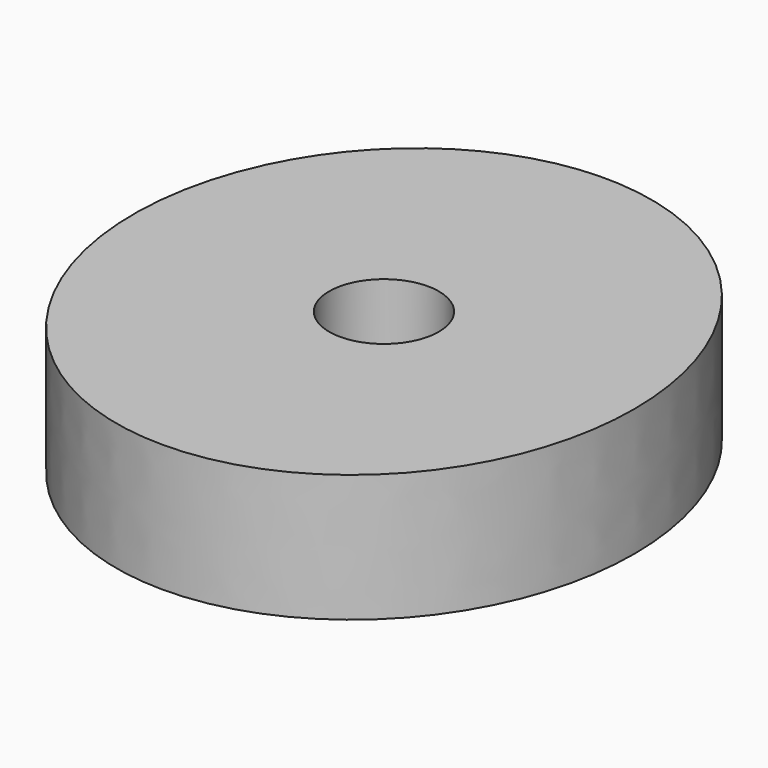
from build123d import *

# Parameters (mm, degrees)
F0_R     = 40.71088
F0_R_2   = 34.066832
F0_R_3   = 30.423607
F0_R_4   = 26.195148
F0_R_5   = 22.085911
F0_R_6   = 10.922
F1_DEPTH = 25.4


with BuildPart() as f1:
    # F0 (on Top) → F1 (new body)
    with BuildSketch(Plane.XY):
        with BuildLine():
            add(Edge.make_bspline(
                [(-6.256718, 56.284346), (-93.798752, 46.552939), (-40.642658, -33.007876), (12.513436, -112.568691), (46.899376, -23.27647), (81.285315, 66.015752), (-6.256718, 56.284346)],
                knots=[0, 0, 0, 2.094395, 2.094395, 4.18879, 4.18879, 6.283185, 6.283185, 6.283185], degree=2, weights=[1, 0.5, 1, 0.5, 1, 0.5, 1]))
        make_face()
        Circle(F0_R, mode=Mode.SUBTRACT)
        Circle(F0_R)
        Circle(F0_R_2, mode=Mode.SUBTRACT)
        Circle(F0_R_2)
        Circle(F0_R_3, mode=Mode.SUBTRACT)
        Circle(F0_R_3)
        Circle(F0_R_4, mode=Mode.SUBTRACT)
        Circle(F0_R_4)
        Circle(F0_R_5, mode=Mode.SUBTRACT)
        Circle(F0_R_5)
        Circle(F0_R_6, mode=Mode.SUBTRACT)
    extrude(amount=F1_DEPTH)


solid = f1.part
